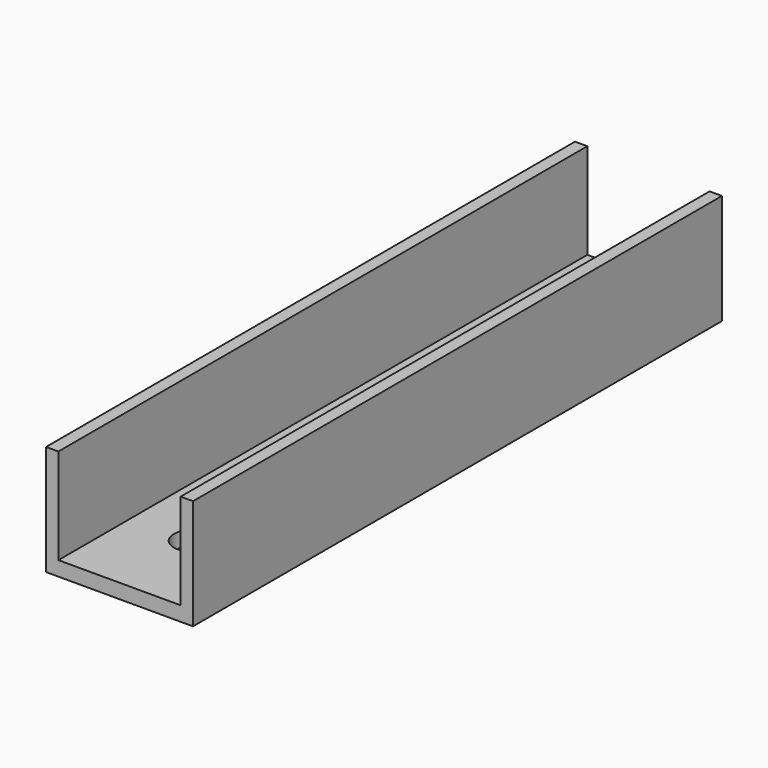
from build123d import *

# Parameters (mm, degrees)
F0_R     = 3.175
F1_DEPTH = 19.05
F2_W     = 21.134718
F2_H     = 23.147546
F3_DEPTH = 140.54349


with BuildPart() as f1:
    # F0 (on Top) → F1 (new body)
    with BuildSketch(Plane.XY):
        with BuildLine():
            ThreePointArc((3.175, 41.452094), (2.245064, 43.697158), (0, 44.627094))
            ThreePointArc((0, 44.627094), (-2.245064, 39.20703), (3.175, 41.452094))
        make_face()
        Polygon((-12.7, -57.15), (12.7, -57.15), (12.7, 57.15), (0, 57.15), (-12.7, 57.15), align=None)
        with Locations((0, -41.452094)):
            Circle(F0_R, mode=Mode.SUBTRACT)
        with BuildLine():
            ThreePointArc((3.175, 41.452094), (-2.245064, 39.20703), (0, 44.627094))
            ThreePointArc((0, 44.627094), (2.245064, 43.697158), (3.175, 41.452094))
        make_face(mode=Mode.SUBTRACT)
    extrude(amount=F1_DEPTH)

    # F2 (on face) → F3 (cut)
    with BuildSketch(Plane(origin=(0, 57.15, 0), x_dir=(-1, 0, 0), z_dir=(0, 1, 0))):
        with Locations((0, 14.087191)):
            Rectangle(F2_W, F2_H)
    extrude(amount=-F3_DEPTH, mode=Mode.SUBTRACT)


solid = f1.part
